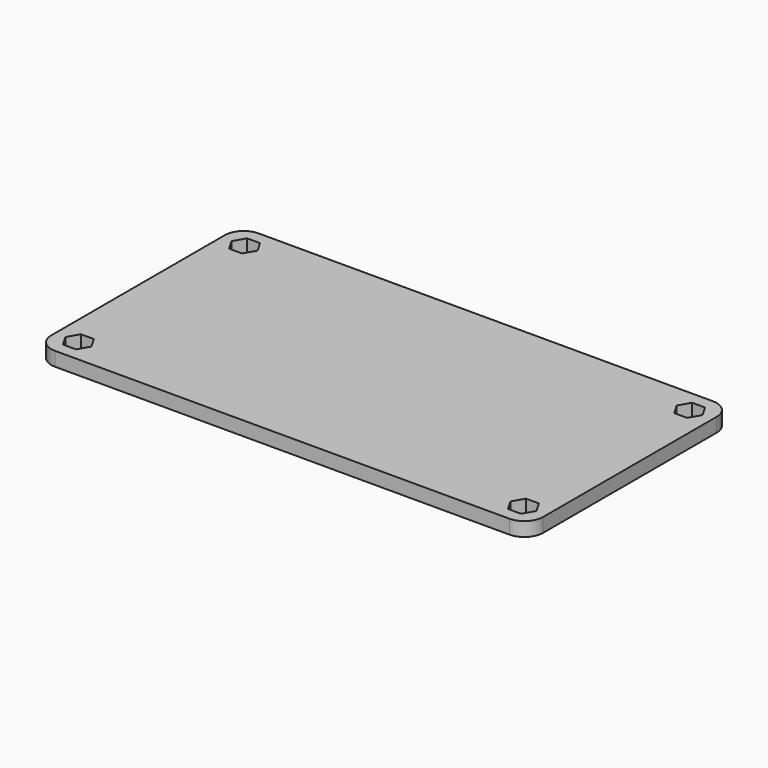
from build123d import *

# Parameters (mm, degrees)
PAD_DEPTH    = 3
POCKET_DEPTH = 3.001


with BuildPart() as part:
    # Sketch → Pad (new body)
    with BuildSketch(Plane.XY):
        with BuildLine():
            Line((-52.625, 23.225), (-52.625, -23.225))
            ThreePointArc((-52.625, -23.225), (-51.453427, -26.053427), (-48.625, -27.225))
            Line((-48.625, -27.225), (48.625, -27.225))
            ThreePointArc((48.625, -27.225), (51.453427, -26.053427), (52.625, -23.225))
            Line((52.625, -23.225), (52.625, 23.225))
            ThreePointArc((52.625, 23.225), (51.453427, 26.053427), (48.625, 27.225))
            Line((48.625, 27.225), (-48.625, 27.225))
            ThreePointArc((-48.625, 27.225), (-51.453427, 26.053427), (-52.625, 23.225))
        make_face()
    extrude(amount=PAD_DEPTH)

    # Sketch001 (on Face10 of Pad) → Pocket (cut, through all)
    with BuildSketch(Plane.XY.offset(3)):
        Polygon((-44.853719, -22.225), (-46.239359, -19.825), (-49.010641, -19.825), (-50.396281, -22.225), (-49.010641, -24.625), (-46.239359, -24.625), align=None)
        Polygon((44.853719, -22.225), (46.239359, -24.625), (49.010641, -24.625), (50.396281, -22.225), (49.010641, -19.825), (46.239359, -19.825), align=None)
        Polygon((44.853719, 22.225), (46.239359, 19.825), (49.010641, 19.825), (50.396281, 22.225), (49.010641, 24.625), (46.239359, 24.625), align=None)
        Polygon((-44.853719, 22.225), (-46.239359, 24.625), (-49.010641, 24.625), (-50.396281, 22.225), (-49.010641, 19.825), (-46.239359, 19.825), align=None)
    extrude(amount=-POCKET_DEPTH, mode=Mode.SUBTRACT)


solid = part.part
